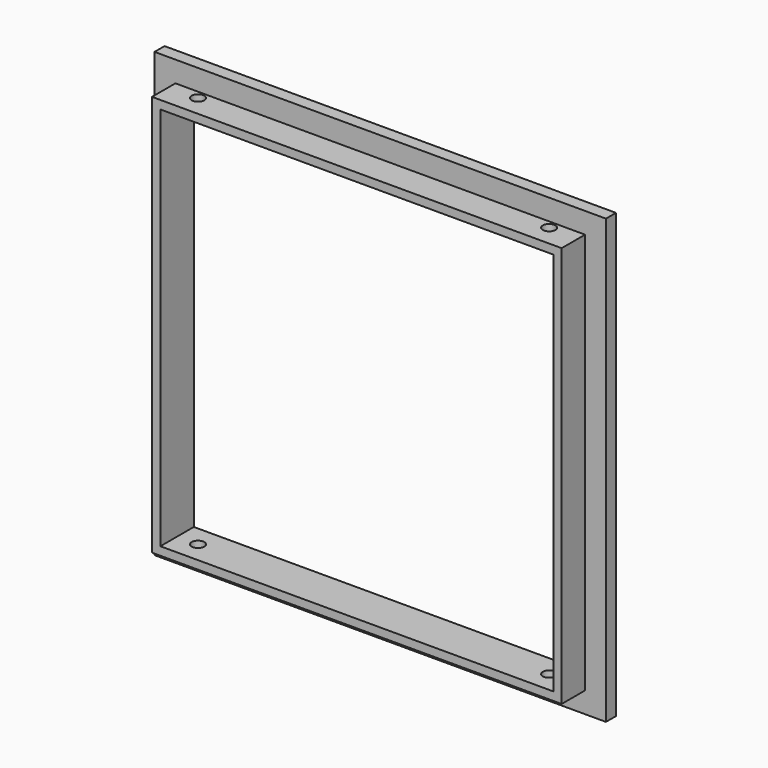
from build123d import *

# Parameters (mm, degrees)
F0_W     = 98
F0_H     = 96
F0_W_2   = 94
F0_H_2   = 92
F1_DEPTH = 10
F0_W_3   = 108
F0_H_3   = 106
F2_DEPTH = 3
F4_D     = 3
F4_DEPTH = 110
F4_START = 5
F4_TIP   = 0.9012909285


with BuildPart() as f1:
    # F0 (on Front) → F1 (new body)
    with BuildSketch(Plane.XZ):
        with Locations((54, 53)):
            Rectangle(F0_W, F0_H)
        with Locations((54, 53)):
            Rectangle(F0_W_2, F0_H_2, mode=Mode.SUBTRACT)
    extrude(amount=F1_DEPTH)

    # F0 (on Front) → F2 (join)
    with BuildSketch(Plane.XZ):
        with Locations((54, 53)):
            Rectangle(F0_W_3, F0_H_3)
        with Locations((54, 53)):
            Rectangle(F0_W, F0_H, mode=Mode.SUBTRACT)
    extrude(amount=F2_DEPTH)

    # F4
    # its depths count from where the whole tool has entered the part; down to there all is cleared
    with Locations(Plane(origin=(0, 0, 0), x_dir=(1, 0, 0), z_dir=(0, 0, -1)).offset(-F4_START)):
        with Locations((12, 5), (96, 5)):
            Hole(F4_D / 2, depth=F4_DEPTH)
            with Locations((0, 0, -(F4_DEPTH + F4_TIP / 2))):  # 118° drill point
                Cone(0, F4_D / 2, F4_TIP, mode=Mode.SUBTRACT)


solid = f1.part
